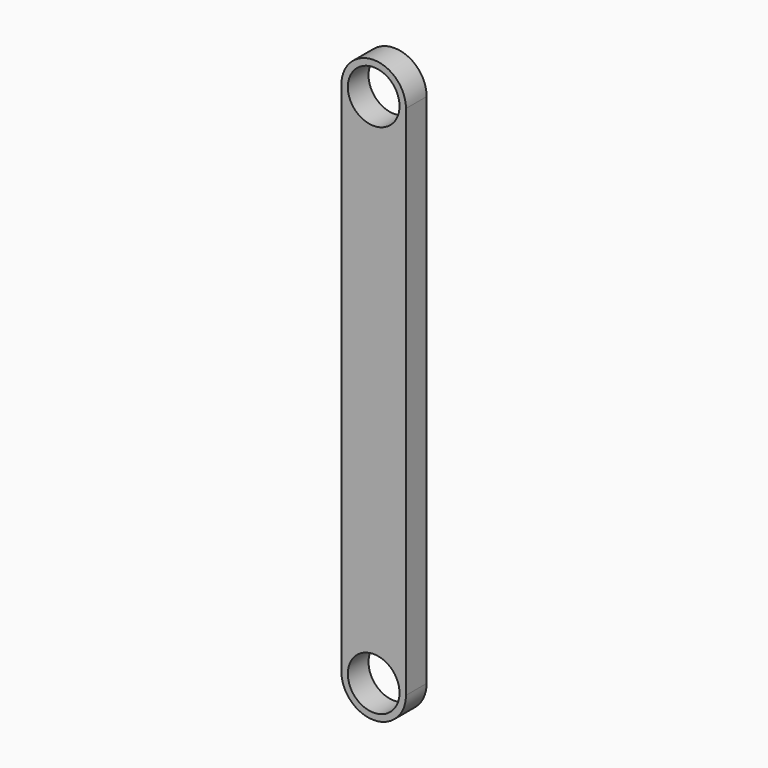
from build123d import *

# Parameters (mm, degrees)
F0_R     = 5.08
F1_DEPTH = 5.08


with BuildPart() as f1:
    # F0 (on Front) → F1 (new body)
    with BuildSketch(Plane.XZ):
        with BuildLine():
            Line((6.35, -21.244763), (6.35, 80.355237))
            ThreePointArc((6.35, 80.355237), (0, 74.005237), (-6.35, 80.355237))
            Line((-6.35, 80.355237), (-6.35, -21.244763))
            ThreePointArc((-6.35, -21.244763), (0, -14.894763), (6.35, -21.244763))
        make_face()
        with BuildLine():
            ThreePointArc((-6.35, 80.355237), (0, 74.005237), (6.35, 80.355237))
            ThreePointArc((6.35, 80.355237), (0, 86.705237), (-6.35, 80.355237))
        make_face()
        with Locations((0, 80.355237)):
            Circle(F0_R, mode=Mode.SUBTRACT)
        with BuildLine():
            ThreePointArc((-6.35, -21.244763), (0, -27.594763), (6.35, -21.244763))
            ThreePointArc((6.35, -21.244763), (0, -14.894763), (-6.35, -21.244763))
        make_face()
        with Locations((0, -21.244763)):
            Circle(F0_R, mode=Mode.SUBTRACT)
    extrude(amount=F1_DEPTH)


solid = f1.part
